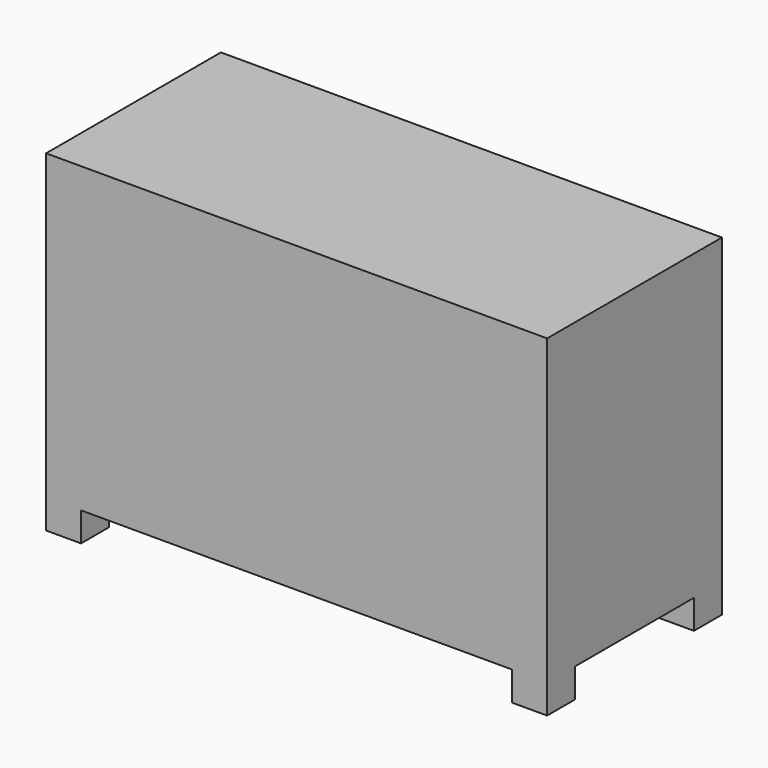
from build123d import *

# Parameters (mm, degrees)
F0_W     = 1092.2
F0_H     = 476.25
F1_DEPTH = 723.9
F3_DEPTH = 63.5


with BuildPart() as f1:
    # F0 (on Top) → F1 (new body)
    with BuildSketch(Plane.XY):
        with Locations((546.1, 238.125)):
            Rectangle(F0_W, F0_H)
    extrude(amount=F1_DEPTH)

    # F2 (on face) → F3 (cut)
    with BuildSketch(Plane(origin=(0, 0, 0), x_dir=(1, 0, 0), z_dir=(0, 0, -1))):
        Polygon((76.2, -76.2), (0, -76.2), (0, -400.05), (76.2, -400.05), (76.2, -476.25), (1016, -476.25), (1016, -400.05), (1092.2, -400.05), (1092.2, -76.2), (1016, -76.2), (1016, 0), (76.2, 0), align=None)
    extrude(amount=-F3_DEPTH, mode=Mode.SUBTRACT)


solid = f1.part
